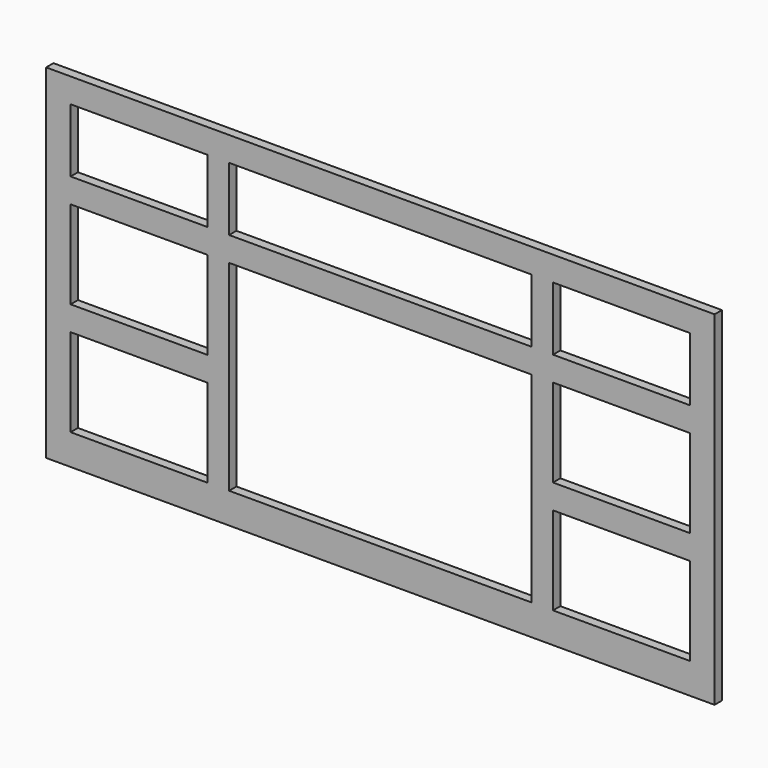
from build123d import *

# Parameters (mm, degrees)
F0_W     = 1385.8875
F0_H     = 712.7875
F0_W_2   = 284.1625
F0_H_2   = 182.5625
F0_W_3   = 627.0625
F0_H_3   = 415.925
F0_H_4   = 131.7625
F1_DEPTH = 19.05


with BuildPart() as f1:
    # F0 (on Front) → F1 (new body)
    with BuildSketch(Plane.XZ):
        Rectangle(F0_W, F0_H)
        with Locations((-500.0625, -201.6125)):
            Rectangle(F0_W_2, F0_H_2, mode=Mode.SUBTRACT)
        with Locations((0, -84.93125)):
            Rectangle(F0_W_3, F0_H_3, mode=Mode.SUBTRACT)
        with Locations((500.0625, -201.6125)):
            Rectangle(F0_W_2, F0_H_2, mode=Mode.SUBTRACT)
        with Locations((-500.0625, 31.75)):
            Rectangle(F0_W_2, F0_H_2, mode=Mode.SUBTRACT)
        with Locations((-500.0625, 239.7125)):
            Rectangle(F0_W_2, F0_H_4, mode=Mode.SUBTRACT)
        with Locations((0, 239.7125)):
            Rectangle(F0_W_3, F0_H_4, mode=Mode.SUBTRACT)
        with Locations((500.0625, 31.75)):
            Rectangle(F0_W_2, F0_H_2, mode=Mode.SUBTRACT)
        with Locations((500.0625, 239.7125)):
            Rectangle(F0_W_2, F0_H_4, mode=Mode.SUBTRACT)
    extrude(amount=F1_DEPTH)


solid = f1.part
